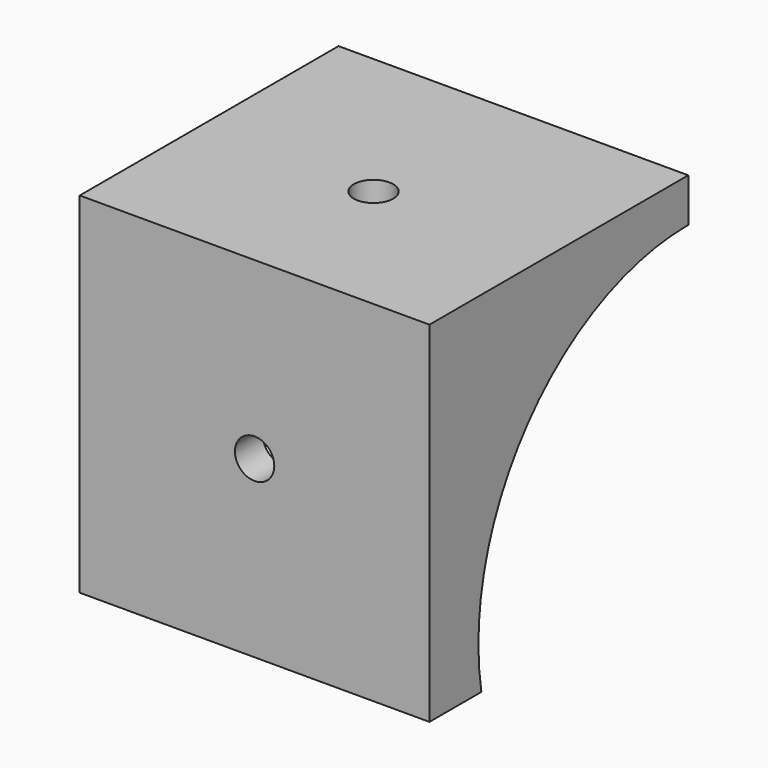
from build123d import *

# Parameters (mm, degrees)
CYLINDER004_R     = 30
CYLINDER004_DEPTH = 40
CYLINDER005_R     = 2.25
CYLINDER005_DEPTH = 20
CYLINDER006_R     = 2.25
CYLINDER006_DEPTH = 20
BOX004_W          = 32
BOX004_H          = 40
BOX004_DEPTH      = 40
BOX003_W          = 40
BOX003_H          = 37
BOX003_DEPTH      = 40


with BuildPart() as cylinder004:
    # Cylinder004 → Cylinder004 (new body)
    with BuildSketch(Plane(origin=(0, 37, 5), x_dir=(0, 0, -1), z_dir=(1, 0, 0))):
        Circle(CYLINDER004_R)
    extrude(amount=CYLINDER004_DEPTH)


with BuildPart() as cylinder005:
    # Cylinder005 → Cylinder005 (new body)
    with BuildSketch(Plane(origin=(20, 10, 20), x_dir=(1, 0, 0), z_dir=(0, -1, 0))):
        Circle(CYLINDER005_R)
    extrude(amount=CYLINDER005_DEPTH)


with BuildPart() as cylinder006:
    # Cylinder006 → Cylinder006 (new body)
    with BuildSketch(Plane(origin=(20, 17, 30), x_dir=(1, 0, 0), z_dir=(0, 0, 1))):
        Circle(CYLINDER006_R)
    extrude(amount=CYLINDER006_DEPTH)


with BuildPart() as fusion002:
    # Box004 → Box004 (new body)
    with BuildSketch(Plane(origin=(4, 4, -4), x_dir=(1, 0, 0), z_dir=(0, 0, 1))):
        with Locations((16, 20)):
            Rectangle(BOX004_W, BOX004_H)
    extrude(amount=BOX004_DEPTH)

    # Fusion002: union Cylinder004, Cylinder005, Cylinder006
    add(cylinder004.part)
    add(cylinder005.part)
    add(cylinder006.part)


with BuildPart() as cut002:
    # Box003 → Box003 (new body)
    with BuildSketch(Plane.XY):
        with Locations((20, 18.5)):
            Rectangle(BOX003_W, BOX003_H)
    extrude(amount=BOX003_DEPTH)

    # Cut002: cut Fusion002
    add(fusion002.part, mode=Mode.SUBTRACT)


with BuildPart() as cut002_1:
    # Cut002 placement: moved
    add(cut002.part.moved(Location((0, 3, 0))))


solid = cut002_1.part
